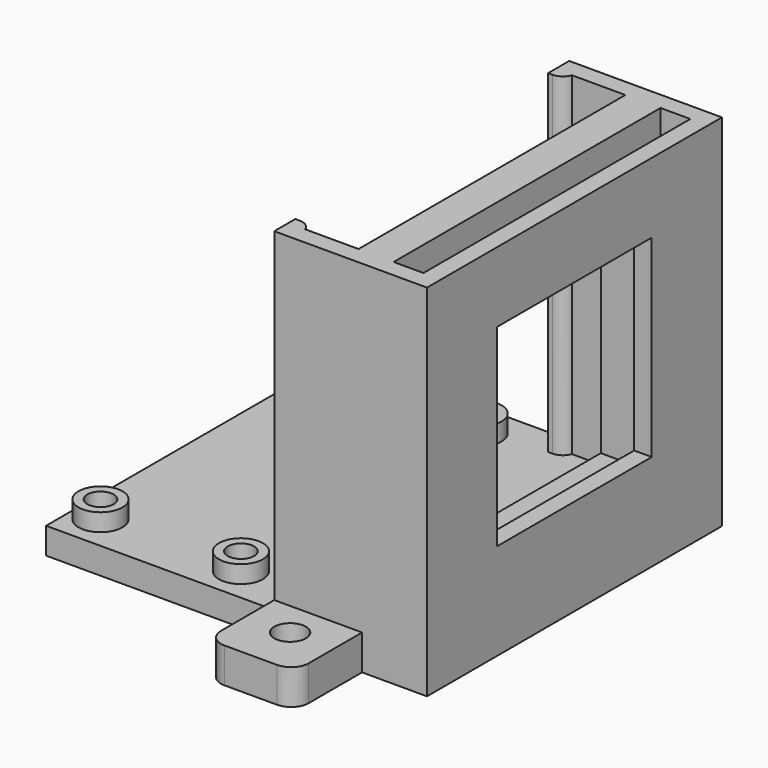
from build123d import *

# Parameters (mm, degrees)
CYLINDER_R        = 1.5
CYLINDER_DEPTH    = 20
ARRAY_X_COUNT     = 2
ARRAY_X_PITCH     = 16
ARRAY_Y_COUNT     = 2
ARRAY_Y_PITCH     = 34
CYLINDER001_R     = 1.8
CYLINDER001_DEPTH = 10
BOX005_W          = 2
BOX005_H          = 3
BOX005_DEPTH      = 41
FILLET_R          = 1.5
BOX004_W          = 10
BOX004_H          = 9.6
BOX004_DEPTH      = 4
FILLET001_R       = 2
BOX001_W          = 17.4
BOX001_H          = 2
BOX001_DEPTH      = 41
BOX_W             = 41.4
BOX_H             = 42
BOX_DEPTH         = 3
BOX003_W          = 4
BOX003_H          = 31
BOX003_DEPTH      = 31
BOX002_W          = 4
BOX002_H          = 42
BOX002_DEPTH      = 41
BOX007_W          = 2
BOX007_H          = 22
BOX007_DEPTH      = 22
BOX006_W          = 2
BOX006_H          = 42
BOX006_DEPTH      = 41
CYLINDER002_R     = 2.5
CYLINDER002_DEPTH = 5
ARRAY001_X_COUNT  = 2
ARRAY001_X_PITCH  = 16
ARRAY001_Y_COUNT  = 2
ARRAY001_Y_PITCH  = 34


with BuildPart() as obj1:
    # Cylinder → Cylinder (new body)
    with BuildSketch(Plane(origin=(-23, 4, 0), x_dir=(1, 0, 0), z_dir=(0, 0, 1))):
        Circle(CYLINDER_R)
    extrude(amount=CYLINDER_DEPTH)

    # Array X: obj1_2


with BuildPart() as obj1_1:
    add(obj1.part)
    with Locations(*[(i * ARRAY_X_PITCH, 0, 0) for i in range(1, ARRAY_X_COUNT)]):
        add(obj1.part)

    # Array Y: obj1_2


with BuildPart() as obj1_2:
    add(obj1_1.part)
    with Locations(*[(0, i * ARRAY_Y_PITCH, 0) for i in range(1, ARRAY_Y_COUNT)]):
        add(obj1_1.part)


with BuildPart() as bolt_hole:
    # Cylinder001 → Cylinder001 (new body)
    with BuildSketch(Plane(origin=(5, -4, -3), x_dir=(1, 0, 0), z_dir=(0, 0, 1))):
        Circle(CYLINDER001_R)
    extrude(amount=CYLINDER001_DEPTH)


with BuildPart() as side_locker_fillet:
    # Box005 → Box005 (new body)
    with BuildSketch(Plane.XY):
        with Locations((1, 1.5)):
            Rectangle(BOX005_W, BOX005_H)
    extrude(amount=BOX005_DEPTH)

    # Fillet
    fillet_edges = [side_locker_fillet.edges().sort_by_distance(p)[0] for p in [
        (2, 3, 20.5),
    ]]
    fillet(fillet_edges, radius=FILLET_R)


with BuildPart() as bolt_hole_cube_fillet:
    # Box004 → Box004 (new body)
    with BuildSketch(Plane(origin=(0, -9.6, 0), x_dir=(1, 0, 0), z_dir=(0, 0, 1))):
        with Locations((5, 4.8)):
            Rectangle(BOX004_W, BOX004_H)
    extrude(amount=BOX004_DEPTH)

    # Fillet001
    fillet001_edges = [bolt_hole_cube_fillet.edges().sort_by_distance(p)[0] for p in [
        (0, -9.6, 2),
        (10, -9.6, 2),
    ]]
    fillet(fillet001_edges, radius=FILLET001_R)


with BuildPart() as side_cut:
    # Box001 → Box001 (new body)
    with BuildSketch(Plane.XY):
        with Locations((8.7, 1)):
            Rectangle(BOX001_W, BOX001_H)
    extrude(amount=BOX001_DEPTH)

    # Fusion: union side locker fillet, bolt hole cube fillet
    add(side_locker_fillet.part)
    add(bolt_hole_cube_fillet.part)

    # Cut001: cut bolt hole
    add(bolt_hole.part, mode=Mode.SUBTRACT)


with BuildPart() as bottom_cube:
    # Box → Box (new body)
    with BuildSketch(Plane(origin=(-26, 0, 0), x_dir=(1, 0, 0), z_dir=(0, 0, 1))):
        with Locations((20.7, 21)):
            Rectangle(BOX_W, BOX_H)
    extrude(amount=BOX_DEPTH)


with BuildPart() as part_mirroring:
    # Part__Mirroring: instance of side cut
    add(side_cut.part.mirror(Plane(origin=(0, 21, 0), x_dir=(1, 0, 0), z_dir=(0, 1, 0))))


with BuildPart() as light_wall_hole_cube:
    # Box003 → Box003 (new body)
    with BuildSketch(Plane(origin=(8, 5.5, 6.5), x_dir=(1, 0, 0), z_dir=(0, 0, 1))):
        with Locations((2, 15.5)):
            Rectangle(BOX003_W, BOX003_H)
    extrude(amount=BOX003_DEPTH)


with BuildPart() as light_wall:
    # Box002 → Box002 (new body)
    with BuildSketch(Plane(origin=(8, 0, 0), x_dir=(1, 0, 0), z_dir=(0, 0, 1))):
        with Locations((2, 21)):
            Rectangle(BOX002_W, BOX002_H)
    extrude(amount=BOX002_DEPTH)

    # Cut: cut light wall hole cube
    add(light_wall_hole_cube.part, mode=Mode.SUBTRACT)


with BuildPart() as filter_wall_hole_cube:
    # Box007 → Box007 (new body)
    with BuildSketch(Plane(origin=(8, 10, 11), x_dir=(1, 0, 0), z_dir=(0, 0, 1))):
        with Locations((1, 11)):
            Rectangle(BOX007_W, BOX007_H)
    extrude(amount=BOX007_DEPTH)


with BuildPart() as filter_wall:
    # Box006 → Box006 (new body)
    with BuildSketch(Plane(origin=(8, 0, 0), x_dir=(1, 0, 0), z_dir=(0, 0, 1))):
        with Locations((1, 21)):
            Rectangle(BOX006_W, BOX006_H)
    extrude(amount=BOX006_DEPTH)

    # Cut003: cut filter wall hole cube
    add(filter_wall_hole_cube.part, mode=Mode.SUBTRACT)


with BuildPart() as filter_wall_1:
    # Cut003 placement: moved
    add(filter_wall.part.moved(Location((7.4, 0, 0))))


with BuildPart() as lighter_holder_cut:
    # Cylinder002 → Cylinder002 (new body)
    with BuildSketch(Plane(origin=(-23, 4, 0), x_dir=(1, 0, 0), z_dir=(0, 0, 1))):
        Circle(CYLINDER002_R)
    extrude(amount=CYLINDER002_DEPTH)

    # Array001 X: lighter holder cut ×2


with BuildPart() as lighter_holder_cut_1:
    add(lighter_holder_cut.part)
    with Locations(*[(i * ARRAY001_X_PITCH, 0, 0) for i in range(1, ARRAY001_X_COUNT)]):
        add(lighter_holder_cut.part)

    # Array001 Y: lighter holder cut ×2


with BuildPart() as lighter_holder_cut_2:
    add(lighter_holder_cut_1.part)
    with Locations(*[(0, i * ARRAY001_Y_PITCH, 0) for i in range(1, ARRAY001_Y_COUNT)]):
        add(lighter_holder_cut_1.part)

    # Fusion001: union side cut, bottom cube, Part__Mirroring, light wall, filter wall
    add(side_cut.part)
    add(bottom_cube.part)
    add(part_mirroring.part)
    add(light_wall.part)
    add(filter_wall_1.part)

    # Cut002: cut obj1
    add(obj1_2.part, mode=Mode.SUBTRACT)


solid = lighter_holder_cut_2.part
